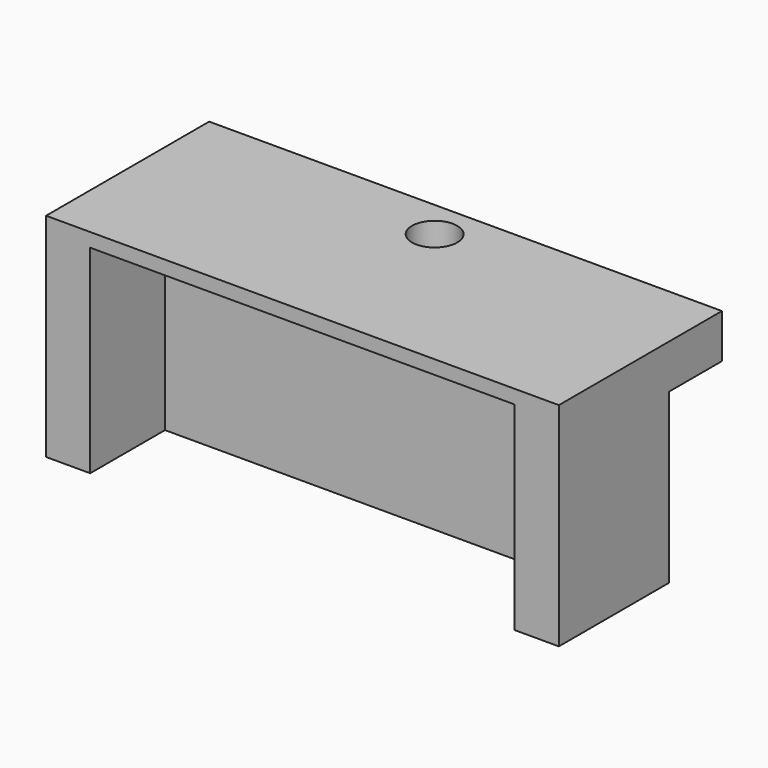
from build123d import *

# Parameters (mm, degrees)
F0_W     = 59.02
F0_H     = 20.92
F0_W_2   = 48.86
F0_H_2   = 10.76
F1_DEPTH = 24.4475
F2_W     = 59.02
F2_H     = 7.62
F2_R     = 2.6035
F3_DEPTH = 5.08
F5_DEPTH = 24.4485
F6_W     = 48.86
F6_H     = 10.76
F7_DEPTH = 1.5875


with BuildPart() as f1:
    # F0 (on Top) → F1 (new body)
    with BuildSketch(Plane.XY):
        Rectangle(F0_W, F0_H)
        Rectangle(F0_W_2, F0_H_2, mode=Mode.SUBTRACT)
    extrude(amount=F1_DEPTH)

    # F2 (on face) → F3 (join)
    with BuildSketch(Plane.XY.offset(24.4475)):
        with Locations((0, 14.27)):
            Rectangle(F2_W, F2_H)
        with Locations((0, 13.635)):
            Circle(F2_R, mode=Mode.SUBTRACT)
    extrude(amount=-F3_DEPTH)

    # F4 (on face) → F5 (cut, through all)
    with BuildSketch(Plane(origin=(0, 0, 0), x_dir=(1, 0, 0), z_dir=(0, 0, -1))):
        Polygon((24.43, 5.38), (29.51, 5.38), (29.51, 10.46), (-29.51, 10.46), (-29.51, 5.38), (-24.43, 5.38), align=None)
    extrude(amount=-F5_DEPTH, mode=Mode.SUBTRACT)

    # F6 (on face) → F7 (join)
    with BuildSketch(Plane.XY.offset(24.4475)):
        Rectangle(F6_W, F6_H)
    extrude(amount=-F7_DEPTH)


solid = f1.part
